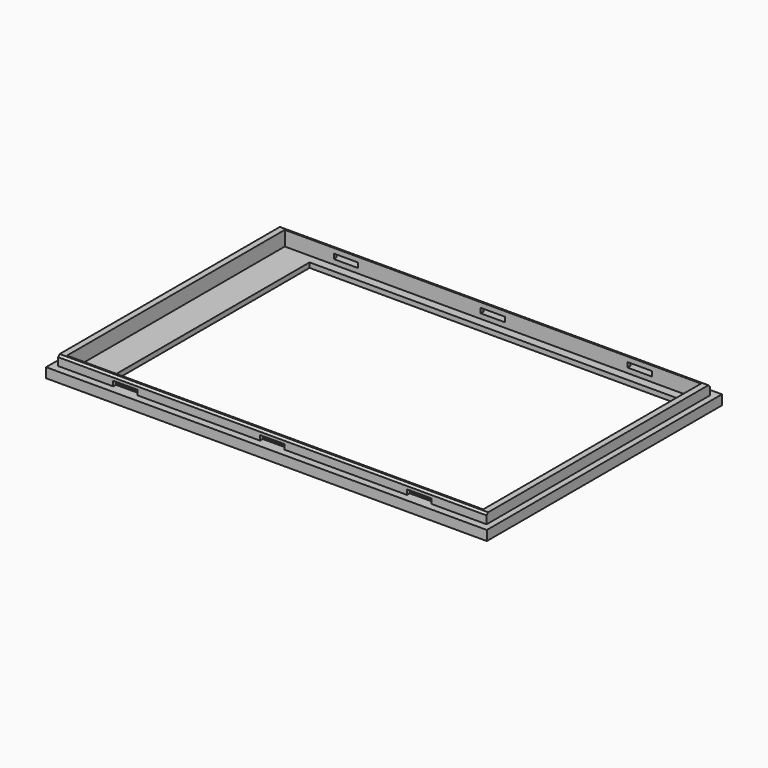
from build123d import *

# Parameters (mm, degrees)
SKETCH_W      = 90
SKETCH_H      = 60
SKETCH_W_2    = 76
SKETCH_H_2    = 52
PAD_DEPTH     = 1
SKETCH001_W   = 90
SKETCH001_H   = 60
SKETCH001_W_2 = 85
SKETCH001_H_2 = 55.6
PAD001_DEPTH  = 1
SKETCH002_W   = 87.5
SKETCH002_H   = 57
SKETCH002_W_2 = 85
SKETCH002_H_2 = 55.6
PAD002_DEPTH  = 2
SKETCH003_W   = 5
SKETCH003_H   = 1
POCKET_DEPTH  = 58.501
CHAMFER_SIZE  = 0.4


with BuildPart() as part:
    # Sketch → Pad (new body)
    with BuildSketch(Plane.XY):
        Rectangle(SKETCH_W, SKETCH_H)
        with Locations((2, 0)):
            Rectangle(SKETCH_W_2, SKETCH_H_2, mode=Mode.SUBTRACT)
    extrude(amount=PAD_DEPTH)

    # Sketch001 → Pad001 (new body)
    with BuildSketch(Plane.XY.offset(1)):
        Rectangle(SKETCH001_W, SKETCH001_H)
        Rectangle(SKETCH001_W_2, SKETCH001_H_2, mode=Mode.SUBTRACT)
    extrude(amount=PAD001_DEPTH)

    # Sketch002 → Pad002 (new body)
    with BuildSketch(Plane.XY.offset(2)):
        Rectangle(SKETCH002_W, SKETCH002_H)
        Rectangle(SKETCH002_W_2, SKETCH002_H_2, mode=Mode.SUBTRACT)
    extrude(amount=PAD002_DEPTH)

    # Sketch003 → Pocket (cut, through all)
    with BuildSketch(Plane.XZ.offset(28.5)):
        with Locations((-30, 2.5)):
            Rectangle(SKETCH003_W, SKETCH003_H)
        with Locations((0, 2.5)):
            Rectangle(SKETCH003_W, SKETCH003_H)
        with Locations((30, 2.5)):
            Rectangle(SKETCH003_W, SKETCH003_H)
    extrude(amount=-POCKET_DEPTH, mode=Mode.SUBTRACT)

    # Chamfer
    chamfer_edges = [part.edges().sort_by_distance(p)[0] for p in [
        (0, -28.5, 4),
        (0, 28.5, 4),
    ]]
    chamfer(chamfer_edges, length=CHAMFER_SIZE)


solid = part.part
